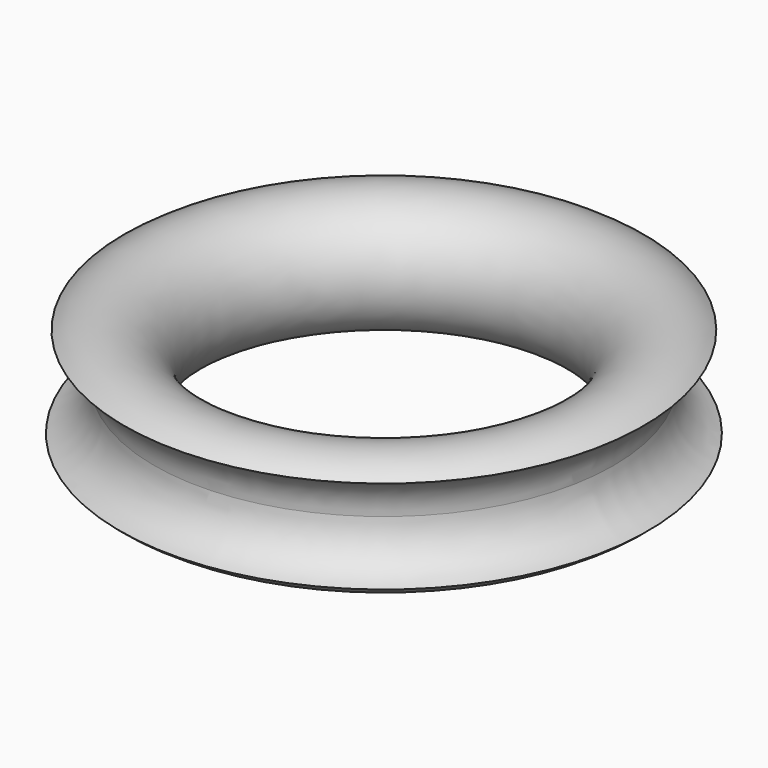
from build123d import *

# Parameters (mm, degrees)
F1_R = 5
F3_R = 4


with BuildPart() as f2:
    # F1 (on Right) → F2 (revolve)
    with BuildSketch(Plane.YZ):
        with Locations((18.387597, 46.255056)):
            Circle(F1_R)
    revolve(axis=Axis((0, 0, 63.5), (0, 0, 1)))

    # F3 (on Front) → F4 (revolve, cut)
    with BuildSketch(Plane.XZ):
        with Locations((-23, 46.477623)):
            Circle(F3_R)
    revolve(axis=Axis((0, 0, 63.5), (0, 0, 1)), mode=Mode.SUBTRACT)


solid = f2.part
